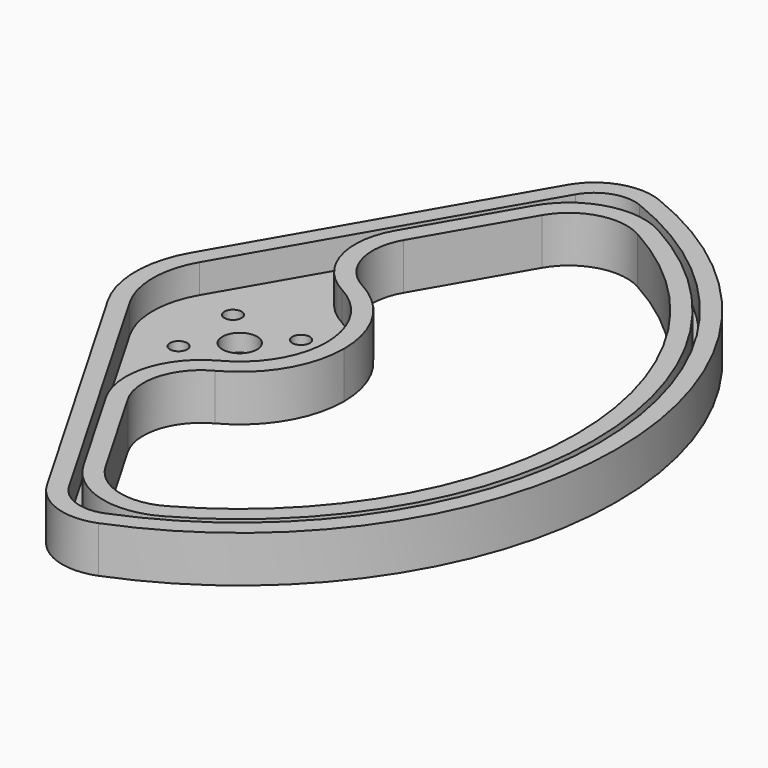
from build123d import *

# Parameters (mm, degrees)
F1_DEPTH = 4
F2_R     = 5
F3_T     = -1.5
F4_R     = 1.5
F5_DEPTH = 3
F6_R     = 0.75
F7_DEPTH = 1.5


with BuildPart() as f1:
    # F0 (on Top) → F1 (new body)
    with BuildSketch(Plane.XY):
        with BuildLine():
            ThreePointArc((-7.794229, 4.5), (-5.011221, 7.475805), (-1.201188, 8.919481))
            Line((-1.201188, 8.919481), (9.473696, 27.408923))
            ThreePointArc((9.473696, 27.408923), (29, 0), (9.473696, -27.408923))
            Line((9.473696, -27.408923), (-1.201188, -8.919481))
            ThreePointArc((-1.201188, -8.919481), (-5.011221, -7.475805), (-7.794229, -4.5))
            Line((-7.794229, -4.5), (7.820268, -31.545101))
            ThreePointArc((7.820268, -31.545101), (32.5, 0), (7.820268, 31.545101))
            Line((7.820268, 31.545101), (-7.794229, 4.5))
        make_face()
        with BuildLine():
            ThreePointArc((-1.201188, -8.919481), (5.924074, -6.775348), (9, 0))
            ThreePointArc((9, 0), (5.924074, 6.775348), (-1.201188, 8.919481))
            ThreePointArc((-1.201188, 8.919481), (-5.011221, 7.475805), (-7.794229, 4.5))
            ThreePointArc((-7.794229, 4.5), (-9, 0), (-7.794229, -4.5))
            ThreePointArc((-7.794229, -4.5), (-5.011221, -7.475805), (-1.201188, -8.919481))
        make_face()
    extrude(amount=F1_DEPTH)

    # F2
    f2_edges = [f1.edges().sort_by_distance(p)[0] for p in [
        (9.473696, 27.408923, 2),
        (9.473696, -27.408923, 2),
        (7.820268, 31.545101, 2),
        (-1.201188, -8.919481, 2),
        (-1.201188, 8.919481, 2),
        (7.820268, -31.545101, 2),
    ]]
    fillet(f2_edges, radius=F2_R)

    # F3
    f3_openings = [f1.faces().sort_by_distance(p)[0] for p in [
        (7.079481, -4.25771, 4),
    ]]
    offset(amount=F3_T, openings=f3_openings)

    # F4 (on Top) → F5 (cut)
    with BuildSketch(Plane.XY):
        Circle(F4_R)
    extrude(amount=F5_DEPTH, mode=Mode.SUBTRACT)

    # F6 (on Top) → F7 (cut, through all)
    with BuildSketch(Plane.XY):
        with Locations((2.934493, 2.934493)):
            Circle(F6_R)
        with Locations((-2.934493, 2.934493)):
            Circle(F6_R)
        with Locations((-2.934493, -2.934493)):
            Circle(F6_R)
        with Locations((2.934493, -2.934493)):
            Circle(F6_R)
    extrude(amount=F7_DEPTH, mode=Mode.SUBTRACT)


solid = f1.part
